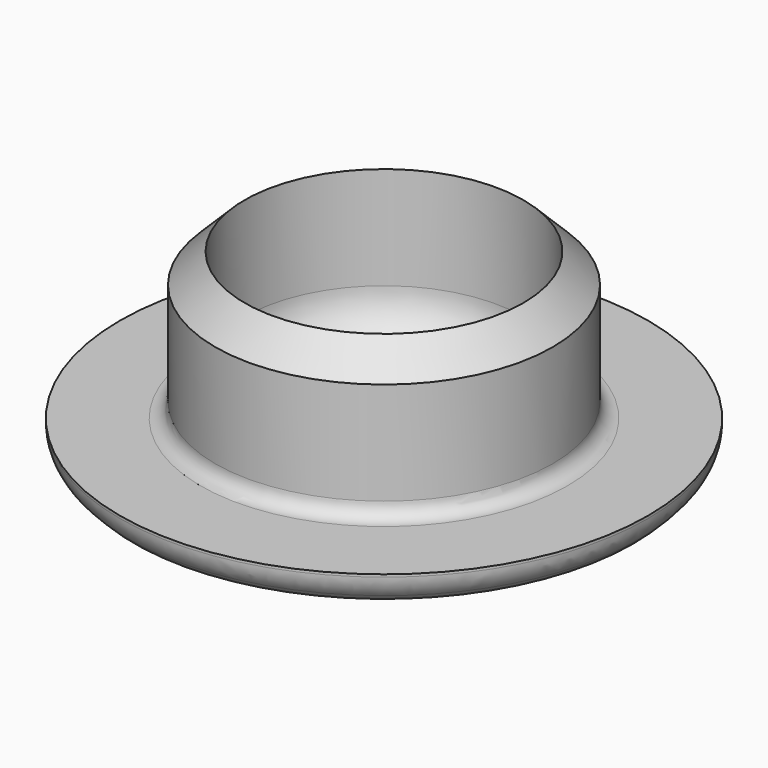
from build123d import *

# Parameters (mm, degrees)
F2_R = 3
F3_R = 2
F4_R = 1


with BuildPart() as f1:
    # F0 (on Front) → F1 (revolve)
    with BuildSketch(Plane.XZ):
        Polygon((0, 2), (0, 0), (17, 0), (18, 1), (18, 2), (11.5, 2), (11.5, 10), (9.5, 12), (9.5, 2), align=None)
    revolve(axis=Axis((0, 0, 1), (0, 0, -1)))

    # F2
    f2_edges = [f1.edges().sort_by_distance(p)[0] for p in [
        (-9.5, 0, 2),
    ]]
    fillet(f2_edges, radius=F2_R)

    # F3
    f3_edges = [f1.edges().sort_by_distance(p)[0] for p in [
        (-18, 0, 1),
    ]]
    fillet(f3_edges, radius=F3_R)

    # F4
    f4_edges = [f1.edges().sort_by_distance(p)[0] for p in [
        (-11.5, 0, 2),
    ]]
    fillet(f4_edges, radius=F4_R)


solid = f1.part
